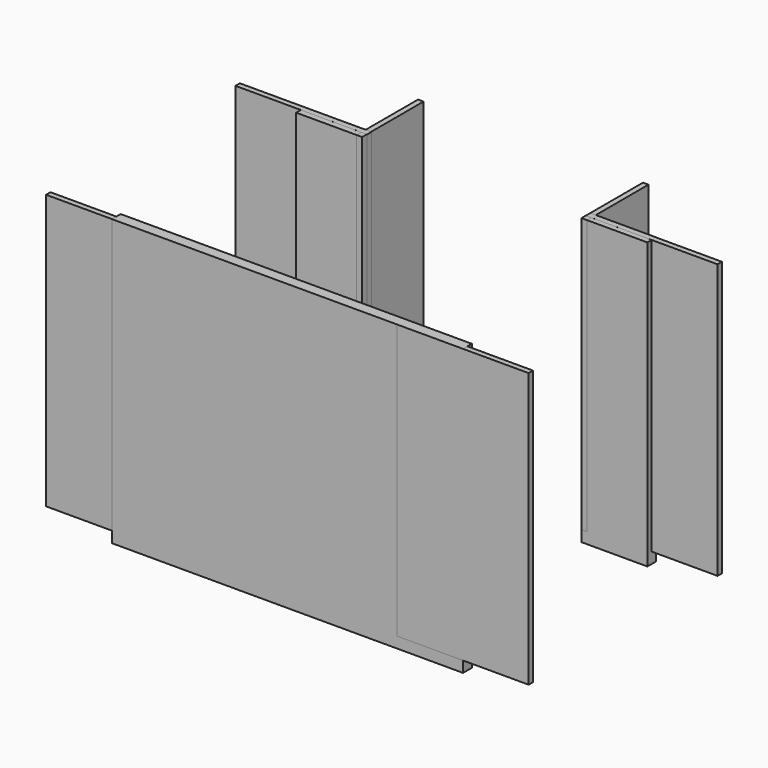
from build123d import *

# Parameters (mm, degrees)
BOX004_W     = 160
BOX004_H     = 5
BOX004_DEPTH = 130
BOX015_W     = 30
BOX015_H     = 5
BOX015_DEPTH = 130
BOX016_W     = 30
BOX016_H     = 5
BOX016_DEPTH = 130
BOX007_W     = 60
BOX007_H     = 2.5
BOX007_DEPTH = 125
BOX006_W     = 60
BOX006_H     = 2.5
BOX006_DEPTH = 125
BOX018_W     = 60
BOX018_H     = 2.5
BOX018_DEPTH = 125
BOX019_W     = 60
BOX019_H     = 2.5
BOX019_DEPTH = 125
BOX010_W     = 2.5
BOX010_H     = 35
BOX010_DEPTH = 125
BOX020_W     = 2.5
BOX020_H     = 35
BOX020_DEPTH = 125


with BuildPart() as cube004:
    # Box004 → Box004 (new body)
    with BuildSketch(Plane.XY):
        with Locations((80, 2.5)):
            Rectangle(BOX004_W, BOX004_H)
    extrude(amount=BOX004_DEPTH)


with BuildPart() as cube015:
    # Box015 → Box015 (new body)
    with BuildSketch(Plane(origin=(0, 105, 0), x_dir=(1, 0, 0), z_dir=(0, 0, 1))):
        with Locations((15, 2.5)):
            Rectangle(BOX015_W, BOX015_H)
    extrude(amount=BOX015_DEPTH)


with BuildPart() as cube016:
    # Box016 → Box016 (new body)
    with BuildSketch(Plane(origin=(130, 105, 0), x_dir=(1, 0, 0), z_dir=(0, 0, 1))):
        with Locations((15, 2.5)):
            Rectangle(BOX016_W, BOX016_H)
    extrude(amount=BOX016_DEPTH)


with BuildPart() as cube007:
    # Box007 → Box007 (new body)
    with BuildSketch(Plane(origin=(130.02002, 107.426147, 5.003364), x_dir=(1, 0, 0), z_dir=(0, 0, 1))):
        with Locations((30, 1.25)):
            Rectangle(BOX007_W, BOX007_H)
    extrude(amount=BOX007_DEPTH)


with BuildPart() as cube006:
    # Box006 → Box006 (new body)
    with BuildSketch(Plane(origin=(129.907806, -0.011722, 4.995405), x_dir=(1, 0, 0), z_dir=(0, 0, 1))):
        with Locations((30, 1.25)):
            Rectangle(BOX006_W, BOX006_H)
    extrude(amount=BOX006_DEPTH)


with BuildPart() as cube018:
    # Box018 → Box018 (new body)
    with BuildSketch(Plane(origin=(-29.821155, 107.664871, 5.004419), x_dir=(1, 0, 0), z_dir=(0, 0, 1))):
        with Locations((30, 1.25)):
            Rectangle(BOX018_W, BOX018_H)
    extrude(amount=BOX018_DEPTH)


with BuildPart() as cube019:
    # Box019 → Box019 (new body)
    with BuildSketch(Plane(origin=(-30.020216, 0.051197, 4.996605), x_dir=(1, 0, 0), z_dir=(0, 0, 1))):
        with Locations((30, 1.25)):
            Rectangle(BOX019_W, BOX019_H)
    extrude(amount=BOX019_DEPTH)


with BuildPart() as cube010:
    # Box010 → Box010 (new body)
    with BuildSketch(Plane(origin=(27.5, 105, 5), x_dir=(1, 0, 0), z_dir=(0, 0, 1))):
        with Locations((1.25, 17.5)):
            Rectangle(BOX010_W, BOX010_H)
    extrude(amount=BOX010_DEPTH)


with BuildPart() as cube020:
    # Box020 → Box020 (new body)
    with BuildSketch(Plane(origin=(130, 105, 5), x_dir=(1, 0, 0), z_dir=(0, 0, 1))):
        with Locations((1.25, 17.5)):
            Rectangle(BOX020_W, BOX020_H)
    extrude(amount=BOX020_DEPTH)


solid = Compound([cube004.part, cube015.part, cube016.part, cube007.part, cube006.part, cube018.part, cube019.part, cube010.part, cube020.part])
